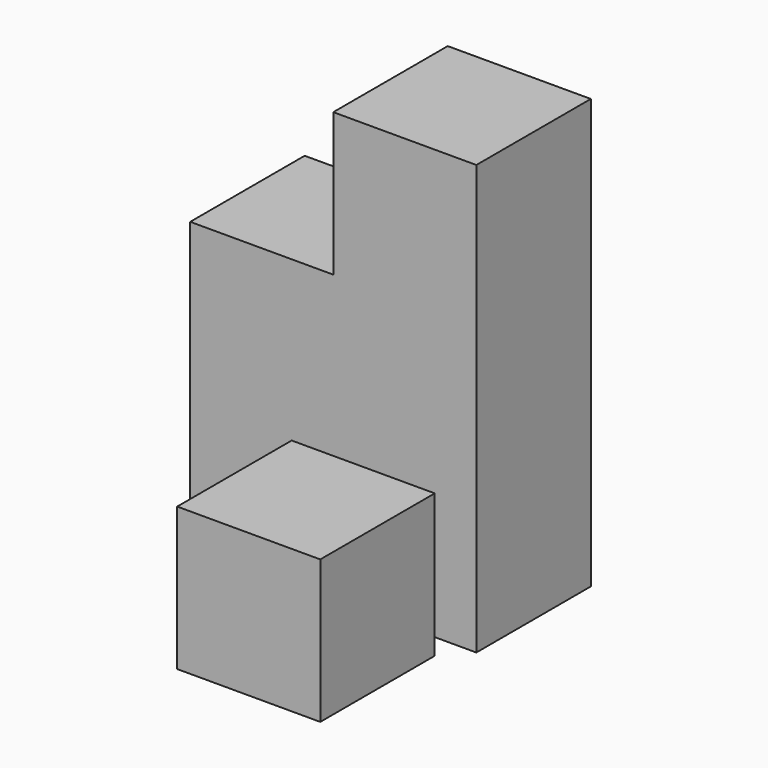
from build123d import *

# Parameters (mm, degrees)
F1_DEPTH = 20
F2_W     = 20
F2_H     = 20
F3_DEPTH = 20


with BuildPart() as f1:
    # F0 (on Front) → F1 (new body)
    with BuildSketch(Plane.XZ):
        Polygon((20, 42.366413), (0, 42.366413), (0, 22.366413), (-20, 22.366413), (-20, -17.633587), (20, -17.633587), align=None)
    extrude(amount=F1_DEPTH)


with BuildPart() as f3:
    # F2 (on Top) → F3 (new body)
    with BuildSketch(Plane.XY):
        with Locations((28.104288, -59.903468)):
            Rectangle(F2_W, F2_H)
    extrude(amount=F3_DEPTH)


solid = Compound([f1.part, f3.part])
